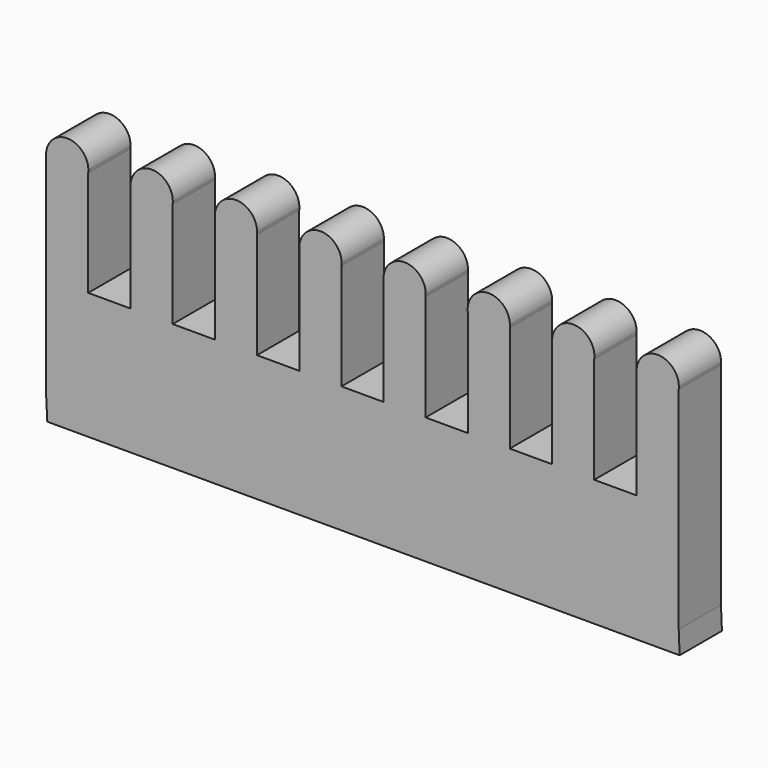
from build123d import *

# Parameters (mm, degrees)
F1_DEPTH = 25.4


with BuildPart() as f1:
    # F0 (on Front) → F1 (new body)
    with BuildSketch(Plane.XZ):
        with BuildLine():
            ThreePointArc((-72.749855, 63.382049), (-72.700367, 63.959206), (-72.683854, 64.538244))
            ThreePointArc((-72.683854, 64.538244), (-83.422892, 74.681731), (-92.937852, 63.382049))
            ThreePointArc((-92.937852, 63.382049), (-82.843854, 54.378244), (-72.749855, 63.382049))
        make_face()
        with BuildLine():
            ThreePointArc((-72.749855, 63.382049), (-82.843854, 54.378244), (-92.937852, 63.382049))
            Line((-92.937852, 63.382049), (-92.937852, 12.293785))
            Line((-92.937852, 12.293785), (-72.749855, 12.293785))
            Line((-72.749855, 12.293785), (-72.749855, 63.382049))
        make_face()
        Polygon((-72.749855, 12.293785), (-92.937852, 12.293785), (-113.261852, 12.293785), (-133.44985, 12.293785), (-153.85941, 12.293785), (-174.047408, 12.293785), (-174.047408, -38.506215), (-173.53265, -48.624064), (-144.623931, -48.624064), (130.419544, -48.624064), (129.97048, -37.800175), (129.97048, 12.293785), (109.782483, 12.293785), (89.372952, 12.293785), (69.184954, 12.293785), (48.775379, 12.293785), (28.587381, 12.293785), (8.312916, 12.293785), (-11.875082, 12.293785), (-32.126242, 12.293785), (-52.314239, 12.293785), align=None)
        with BuildLine():
            Line((-133.44985, 12.293785), (-113.261852, 12.293785))
            Line((-113.261852, 12.293785), (-113.261852, 63.093788))
            ThreePointArc((-113.261852, 63.093788), (-123.355851, 54.089983), (-133.44985, 63.093788))
            Line((-133.44985, 63.093788), (-133.44985, 12.293785))
        make_face()
        with BuildLine():
            Line((-52.314239, 63.374581), (-52.314239, 12.293785))
            Line((-52.314239, 12.293785), (-32.126242, 12.293785))
            Line((-32.126242, 12.293785), (-32.126242, 63.374581))
            ThreePointArc((-32.126242, 63.374581), (-42.220241, 54.370776), (-52.314239, 63.374581))
        make_face()
        with BuildLine():
            ThreePointArc((-133.44985, 63.093788), (-123.355851, 54.089983), (-113.261852, 63.093788))
            ThreePointArc((-113.261852, 63.093788), (-113.212364, 63.670944), (-113.195851, 64.249983))
            ThreePointArc((-113.195851, 64.249983), (-123.934889, 74.393469), (-133.44985, 63.093788))
        make_face()
        with BuildLine():
            ThreePointArc((-32.060241, 64.530776), (-42.799279, 74.674262), (-52.314239, 63.374581))
            ThreePointArc((-52.314239, 63.374581), (-42.220241, 54.370776), (-32.126242, 63.374581))
            ThreePointArc((-32.126242, 63.374581), (-32.076754, 63.951737), (-32.060241, 64.530776))
        make_face()
        with BuildLine():
            Line((-174.047408, 12.293785), (-153.85941, 12.293785))
            Line((-153.85941, 12.293785), (-153.85941, 63.093785))
            ThreePointArc((-153.85941, 63.093785), (-163.953409, 54.08998), (-174.047408, 63.093785))
            Line((-174.047408, 63.093785), (-174.047408, 12.293785))
        make_face()
        with BuildLine():
            Line((-11.875082, 63.37458), (-11.875082, 12.293785))
            Line((-11.875082, 12.293785), (8.312916, 12.293785))
            Line((8.312916, 12.293785), (8.312916, 63.37458))
            ThreePointArc((8.312916, 63.37458), (-1.781083, 54.370775), (-11.875082, 63.37458))
        make_face()
        with BuildLine():
            ThreePointArc((-174.047408, 63.093785), (-163.953409, 54.08998), (-153.85941, 63.093785))
            ThreePointArc((-153.85941, 63.093785), (-153.809922, 63.670941), (-153.793409, 64.24998))
            ThreePointArc((-153.793409, 64.24998), (-164.532447, 74.393466), (-174.047408, 63.093785))
        make_face()
        with BuildLine():
            ThreePointArc((8.378917, 64.530775), (-2.360122, 74.674261), (-11.875082, 63.37458))
            ThreePointArc((-11.875082, 63.37458), (-1.781083, 54.370775), (8.312916, 63.37458))
            ThreePointArc((8.312916, 63.37458), (8.362403, 63.951736), (8.378917, 64.530775))
        make_face()
        with BuildLine():
            Line((28.587381, 63.446807), (28.587381, 12.293785))
            Line((28.587381, 12.293785), (48.775379, 12.293785))
            Line((48.775379, 12.293785), (48.775379, 63.446807))
            ThreePointArc((48.775379, 63.446807), (38.68138, 54.443002), (28.587381, 63.446807))
        make_face()
        with BuildLine():
            ThreePointArc((48.84138, 64.603002), (38.102342, 74.746488), (28.587381, 63.446807))
            ThreePointArc((28.587381, 63.446807), (38.68138, 54.443002), (48.775379, 63.446807))
            ThreePointArc((48.775379, 63.446807), (48.824867, 64.023963), (48.84138, 64.603002))
        make_face()
        with BuildLine():
            Line((69.184954, 63.446804), (69.184954, 12.293785))
            Line((69.184954, 12.293785), (89.372952, 12.293785))
            Line((89.372952, 12.293785), (89.372952, 63.446804))
            ThreePointArc((89.372952, 63.446804), (79.278953, 54.442999), (69.184954, 63.446804))
        make_face()
        with BuildLine():
            ThreePointArc((89.438953, 64.602999), (78.699915, 74.746485), (69.184954, 63.446804))
            ThreePointArc((69.184954, 63.446804), (79.278953, 54.442999), (89.372952, 63.446804))
            ThreePointArc((89.372952, 63.446804), (89.42244, 64.023961), (89.438953, 64.602999))
        make_face()
        with BuildLine():
            Line((109.782483, 63.799825), (109.782483, 12.293785))
            Line((109.782483, 12.293785), (129.97048, 12.293785))
            Line((129.97048, 12.293785), (129.97048, 63.799825))
            ThreePointArc((129.97048, 63.799825), (119.876481, 54.79602), (109.782483, 63.799825))
        make_face()
        with BuildLine():
            ThreePointArc((130.036481, 64.95602), (119.297443, 75.099506), (109.782483, 63.799825))
            ThreePointArc((109.782483, 63.799825), (119.876481, 54.79602), (129.97048, 63.799825))
            ThreePointArc((129.97048, 63.799825), (130.019968, 64.376981), (130.036481, 64.95602))
        make_face()
    extrude(amount=F1_DEPTH)


solid = f1.part
